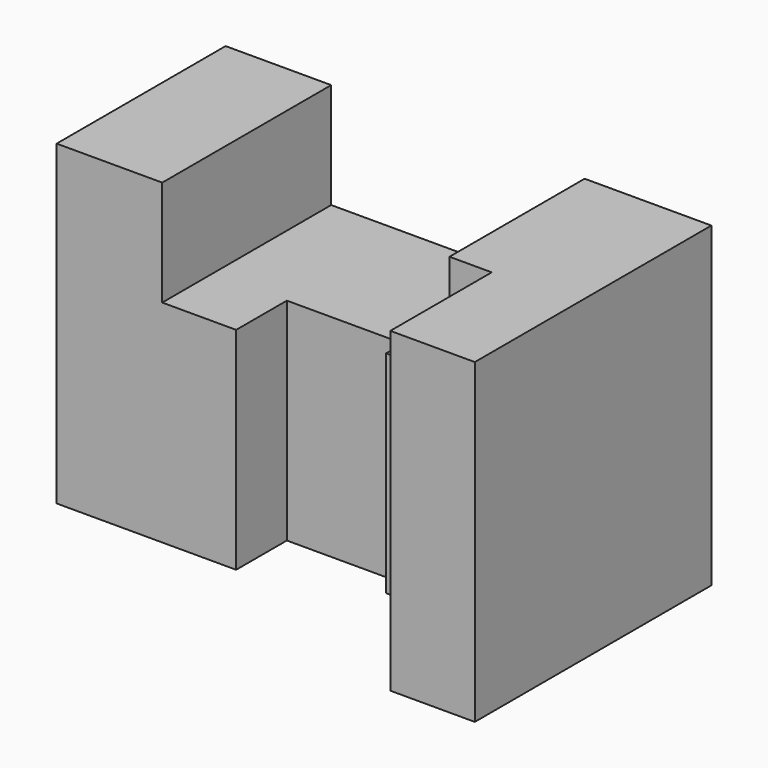
from build123d import *

# Parameters (mm, degrees)
F1_DEPTH = 75
F3_DEPTH = 25


with BuildPart() as f1:
    # F0 (on Top) → F1 (new body)
    with BuildSketch(Plane.XY):
        Polygon((0, 50), (0, 0), (42.5, 0), (42.5, 15), (70, 15), (70, 10), (95, 10), (95, -20), (115, -20), (115, 50), align=None)
    extrude(amount=F1_DEPTH)

    # F2 (on face) → F3 (cut)
    with BuildSketch(Plane.XY.offset(75)):
        Polygon((85, 50), (25, 50), (25, 0), (42.5, 0), (42.5, 15), (70, 15), (70, 10), (85, 10), align=None)
    extrude(amount=-F3_DEPTH, mode=Mode.SUBTRACT)


solid = f1.part
